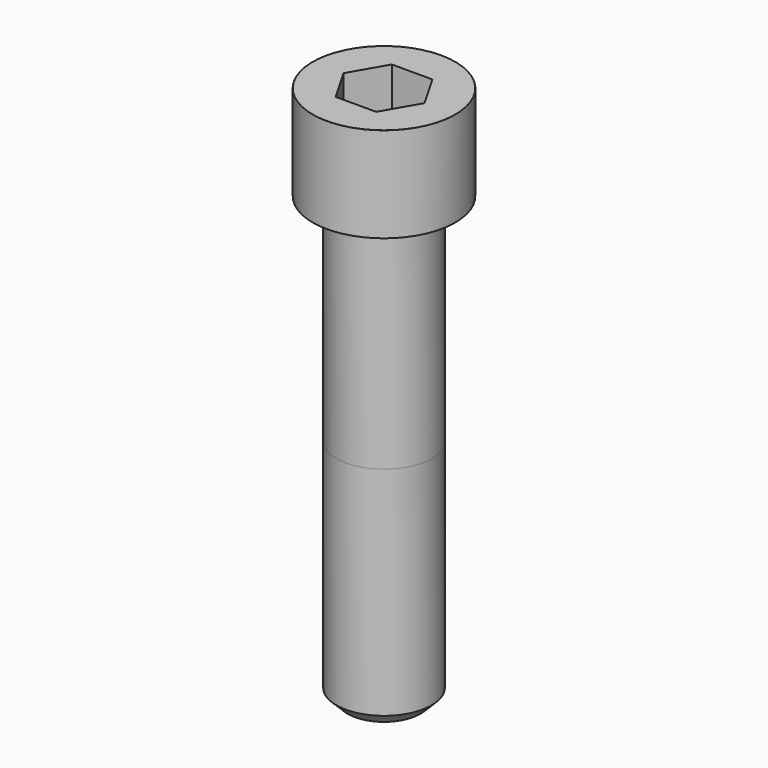
from build123d import *

# Parameters (mm, degrees)
POCKET_DEPTH = 22.15


with BuildPart() as part:
    # Sketch → Revolve (revolve)
    with BuildSketch(Plane.YZ):
        with BuildLine():
            Line((14.999, 0), (22.5, 0))
            Line((22.5, 0), (22.5, 29.97229))
            ThreePointArc((22.5, 29.97229), (22.491884, 29.991884), (22.47229, 30))
            Line((22.47229, 30), (0, 30))
            Line((0, -140), (0, 30))
            Line((11.5, -140), (0, -140))
            Line((15, -136.5), (11.5, -140))
            Line((15, -68), (15, -136.5))
            Line((14.999, 0), (15, -68))
        make_face()
    revolve(axis=Axis((0, 0, 0), (0, 0, 1)))

    # Sketch001 → Pocket (cut)
    with BuildSketch(Plane.XY.offset(30)):
        Polygon((12.788308, 0), (6.394154, 11.075), (-6.394154, 11.075), (-12.788308, 0), (-6.394154, -11.075), (6.394154, -11.075), align=None)
    extrude(amount=-POCKET_DEPTH, mode=Mode.SUBTRACT)


solid = part.part
